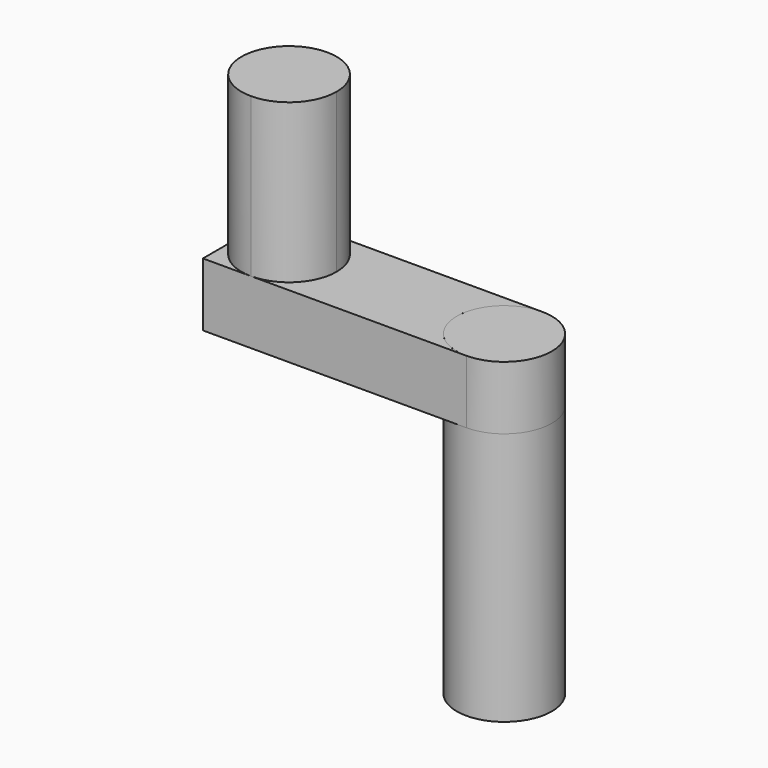
from build123d import *

# Parameters (mm, degrees)
F0_R     = 3.81
F1_DEPTH = 20.32
F3_DEPTH = 12.7
F5_DEPTH = 5.08
F6_R     = 3.81
F7_DEPTH = 5.08
F9_DEPTH = 12.7


with BuildPart() as f1:
    # F0 (on Top) → F1 (new body)
    with BuildSketch(Plane.XY):
        Circle(F0_R)
    extrude(amount=F1_DEPTH)

    # F2 (on face) → F3 (cut)
    with BuildSketch(Plane(origin=(0, 0, 0), x_dir=(1, 0, 0), z_dir=(0, 0, -1))):
        with BuildLine():
            ThreePointArc((0, -1.778), (1.7523079513, 0), (0, 1.778))
            Line((0, 1.778), (0, -1.778))
        make_face()
    extrude(amount=-F3_DEPTH, mode=Mode.SUBTRACT)


with BuildPart() as f5:
    # F4 (on face) → F5 (new body)
    with BuildSketch(Plane.XY.offset(20.32)):
        with BuildLine():
            Line((-21.1020186543, -3.81), (0, -3.81))
            ThreePointArc((0, -3.81), (-3.8093697104, -0.0692994208), (-0.1385759132, 3.80747905))
            Line((-0.1385759132, 3.80747905), (-21.1020186543, 3.80747905))
            Line((-21.1020186543, 3.80747905), (-21.1020186543, -3.81))
        make_face()
    extrude(amount=F5_DEPTH)

    # F8 (on face) → F9 (join)
    with BuildSketch(Plane.XY.offset(25.4)):
        with BuildLine():
            ThreePointArc((-17.2487793983, -3.81), (-14.554702562, -2.6940768363), (-13.4387793983, 0))
            ThreePointArc((-13.4387793983, 0), (-14.5061461537, 2.6446290638), (-17.1102034851, 3.80747905))
            Line((-17.1102034851, 3.80747905), (-17.3873553116, 3.80747905))
            ThreePointArc((-17.3873553116, 3.80747905), (-21.0581491087, -0.0692994208), (-17.2487793983, -3.81))
        make_face()
    extrude(amount=F9_DEPTH)


with BuildPart() as f7:
    # F6 (on face) → F7 (new body)
    with BuildSketch(Plane.XY.offset(20.32)):
        Circle(F6_R)
    extrude(amount=F7_DEPTH)


solid = Compound([f1.part, f5.part, f7.part])
